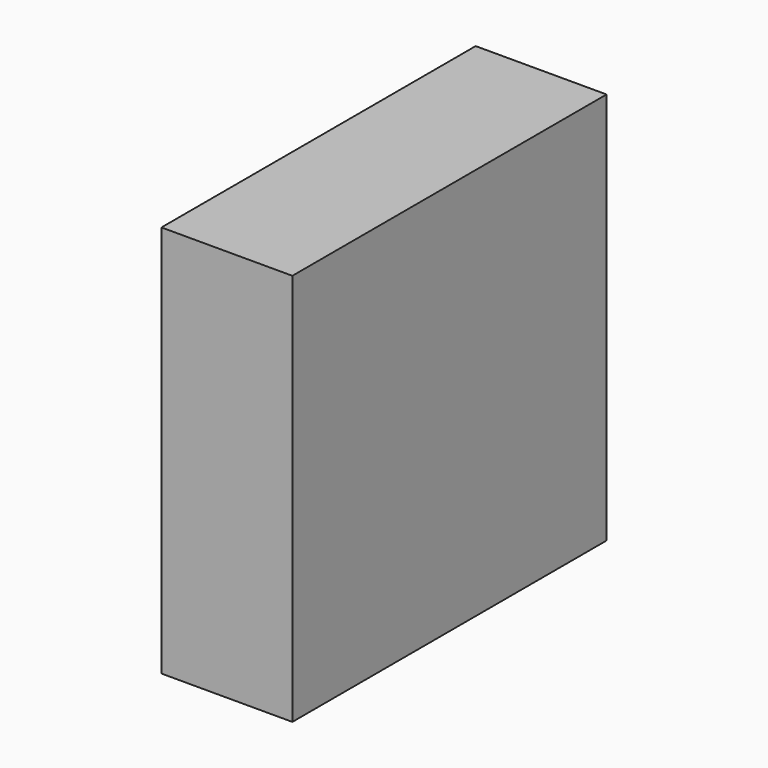
from build123d import *

# Parameters (mm, degrees)
SKETCH_W  = 5
SKETCH_H  = 15
PAD_DEPTH = 15


with BuildPart() as part:
    # Sketch → Pad (new body)
    with BuildSketch(Plane.XY):
        with Locations((2.5, 0)):
            Rectangle(SKETCH_W, SKETCH_H)
    extrude(amount=PAD_DEPTH)


solid = part.part
